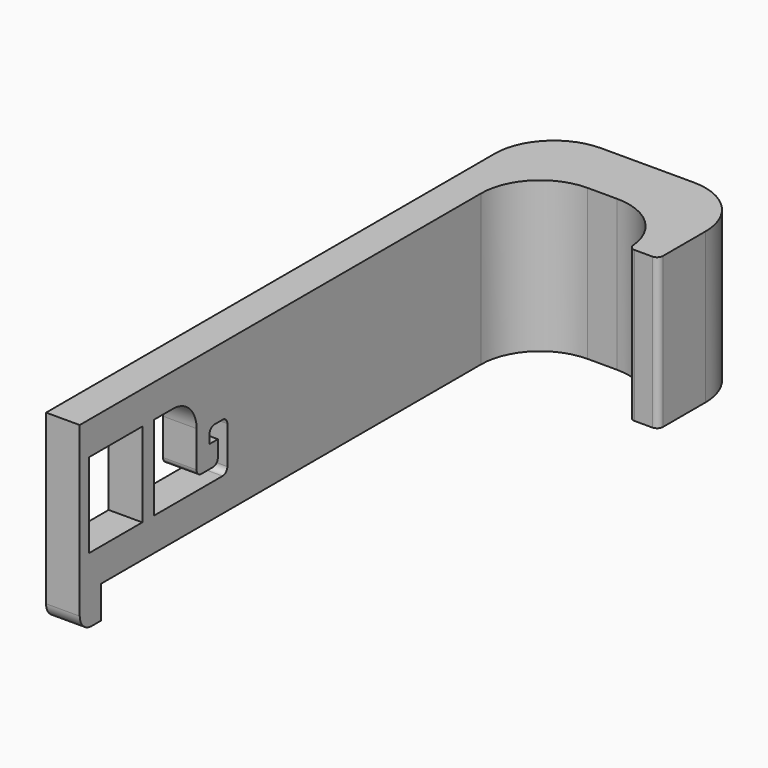
from build123d import *

# Parameters (mm, degrees)
F1_DEPTH = 12.954
F2_W     = 5.715
F2_H     = 7.2644
F3_DEPTH = 18.129257
F5_DEPTH = 2.8956


with BuildPart() as f1:
    # F0 (on Top) → F1 (new body)
    with BuildSketch(Plane.XY):
        with BuildLine():
            Line((0, 48.26), (0, 0))
            Line((0, 0), (2.8956, 0))
            Line((2.8956, 0), (2.8956, 43.18))
            ThreePointArc((2.8956, 43.18), (4.383498, 46.772102), (7.9756, 48.26))
            Line((7.9756, 48.26), (10.538739, 48.26))
            ThreePointArc((10.538739, 48.26), (13.963674, 46.931829), (15.597704, 43.641818))
            ThreePointArc((15.597704, 43.641818), (15.761106, 43.312817), (16.1036, 43.18))
            Line((16.1036, 43.18), (17.620257, 43.18))
            ThreePointArc((17.620257, 43.18), (17.979467, 43.32879), (18.128257, 43.688))
            Line((18.128257, 43.688), (18.128257, 48.26))
            ThreePointArc((18.128257, 48.26), (16.64036, 51.852102), (13.048257, 53.34))
            Line((13.048257, 53.34), (5.08, 53.34))
            ThreePointArc((5.08, 53.34), (1.487898, 51.852102), (0, 48.26))
        make_face()
    extrude(amount=F1_DEPTH)

    # F2 (on face) → F3 (cut, through all)
    with BuildSketch(Plane(origin=(0, 0, 0), x_dir=(0, -1, 0), z_dir=(-1, 0, 0))):
        with BuildLine():
            ThreePointArc((-15.875, 3.3528), (-15.72621, 2.99359), (-15.367, 2.8448))
            Line((-15.367, 2.8448), (-8.001, 2.8448))
            Line((-8.001, 2.8448), (-8.001, 10.1092))
            Line((-8.001, 10.1092), (-10.033, 10.1092))
            ThreePointArc((-10.033, 10.1092), (-11.829051, 9.365251), (-12.573, 7.5692))
            Line((-12.573, 7.5692), (-12.573, 4.445))
            ThreePointArc((-12.573, 4.445), (-12.72179, 4.08579), (-13.081, 3.937))
            Line((-13.081, 3.937), (-14.351, 3.937))
            ThreePointArc((-14.351, 3.937), (-14.71021, 4.08579), (-14.859, 4.445))
            Line((-14.859, 4.445), (-14.859, 5.842))
            Line((-14.859, 5.842), (-13.97, 5.842))
            Line((-13.97, 5.842), (-13.97, 6.604))
            ThreePointArc((-13.97, 6.604), (-14.11879, 6.96321), (-14.478, 7.112))
            Line((-14.478, 7.112), (-15.367, 7.112))
            ThreePointArc((-15.367, 7.112), (-15.72621, 6.96321), (-15.875, 6.604))
            Line((-15.875, 6.604), (-15.875, 3.3528))
        make_face()
        with Locations((-3.8735, 6.477)):
            Rectangle(F2_W, F2_H)
    extrude(amount=-F3_DEPTH, mode=Mode.SUBTRACT)

    # F4 (on Right) → F5 (join, through all)
    with BuildSketch(Plane.YZ):
        with BuildLine():
            Line((2.286, 0), (0, 0))
            Line((0, 0), (0, -1.524))
            ThreePointArc((0, -1.524), (0.371974, -2.422026), (1.27, -2.794))
            Line((1.27, -2.794), (2.286, -2.794))
            Line((2.286, -2.794), (2.286, 0))
        make_face()
    extrude(amount=F5_DEPTH)


solid = f1.part
